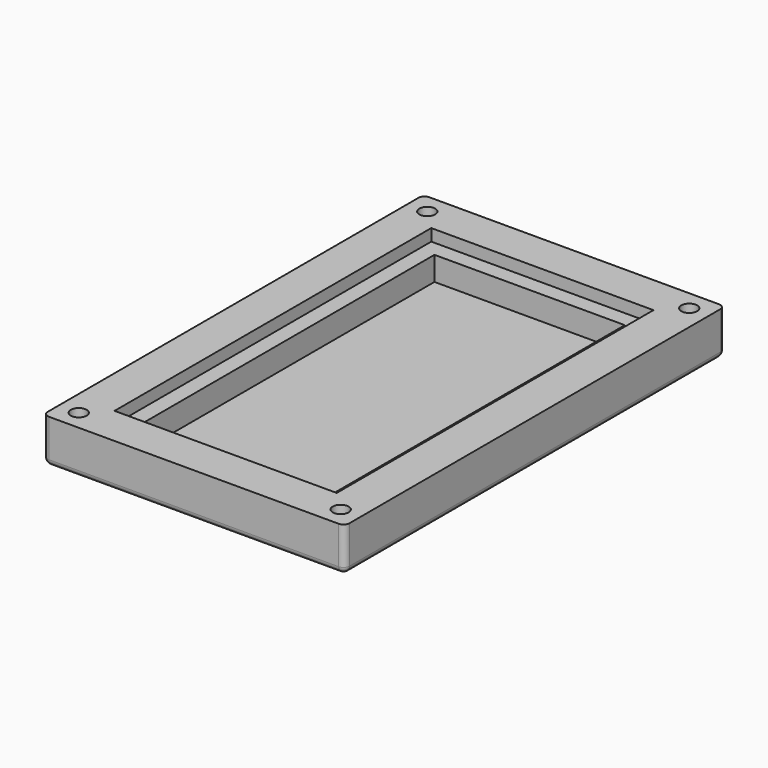
from build123d import *

# Parameters (mm, degrees)
SKETCH001_W     = 37.94
SKETCH001_H     = 59.784
SKETCH001_R     = 1
PAD_DEPTH       = 5.5
SKETCH002_W     = 27.94
SKETCH002_H     = 49.784
POCKET_DEPTH    = 1.5
SKETCH_W        = 23.94
SKETCH_H        = 45.784
POCKET001_DEPTH = 3
POCKET002_DEPTH = 3
FILLET_R        = 0.75


with BuildPart() as part:
    # Sketch001 → Pad (new body)
    with BuildSketch(Plane.XY):
        Rectangle(SKETCH001_W, SKETCH001_H)
        with Locations((-16.47, 27.392)):
            Circle(SKETCH001_R, mode=Mode.SUBTRACT)
        with Locations((16.47, 27.392)):
            Circle(SKETCH001_R, mode=Mode.SUBTRACT)
        with Locations((-16.47, -27.392)):
            Circle(SKETCH001_R, mode=Mode.SUBTRACT)
        with Locations((16.47, -27.392)):
            Circle(SKETCH001_R, mode=Mode.SUBTRACT)
    extrude(amount=PAD_DEPTH)

    # Sketch002 (on Face10 of Pad) → Pocket (cut)
    with BuildSketch(Plane.XY.offset(5.5)):
        Rectangle(SKETCH002_W, SKETCH002_H)
    extrude(amount=-POCKET_DEPTH, mode=Mode.SUBTRACT)

    # Sketch (on Face15 of Pocket) → Pocket001 (cut)
    with BuildSketch(Plane.XY.offset(4)):
        Rectangle(SKETCH_W, SKETCH_H)
    extrude(amount=-POCKET001_DEPTH, mode=Mode.SUBTRACT)

    # Sketch003 (on Face4 of Pocket001) → Pocket002 (cut)
    with BuildSketch(Plane(origin=(0, 0, 0), x_dir=(1, 0, 0), z_dir=(0, 0, -1))):
        Polygon((-15.72, 26.092962), (-14.97, 27.392), (-15.72, 28.691038), (-17.22, 28.691038), (-17.97, 27.392), (-17.22, 26.092962), align=None)
        Polygon((17.22, 26.092962), (17.97, 27.392), (17.22, 28.691038), (15.72, 28.691038), (14.97, 27.392), (15.72, 26.092962), align=None)
        Polygon((-15.72, -28.691038), (-14.97, -27.392), (-15.72, -26.092962), (-17.22, -26.092962), (-17.97, -27.392), (-17.22, -28.691038), align=None)
        Polygon((17.22, -28.691038), (17.97, -27.392), (17.22, -26.092962), (15.72, -26.092962), (14.97, -27.392), (15.72, -28.691038), align=None)
    extrude(amount=-POCKET002_DEPTH, mode=Mode.SUBTRACT)

    # Fillet
    fillet_edges = [part.edges().sort_by_distance(p)[0] for p in [
        (0, -29.892, 0),
        (18.97, 0, 0),
        (18.97, 29.892, 2.75),
        (-18.97, -29.892, 2.75),
        (18.97, -29.892, 2.75),
        (0, 29.892, 0),
        (-18.97, 29.892, 2.75),
        (-18.97, 0, 0),
    ]]
    fillet(fillet_edges, radius=FILLET_R)


solid = part.part
